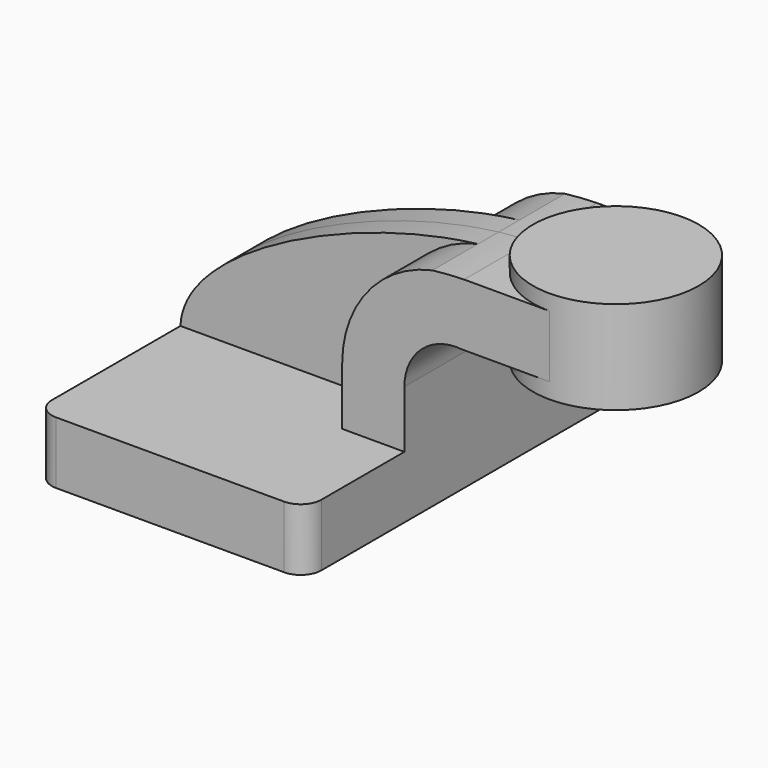
from build123d import *

# Parameters (mm, degrees)
F1_DEPTH = 25.4
F2_DEPTH = 7.9375
F3_DEPTH = 63.5
F0_W     = 25.4
F0_H     = 19.05
F4_DEPTH = 25.4
F6_R     = 6.35


with BuildPart() as f1:
    # F0 (on Front) → F1 (new body, symmetric)
    with BuildSketch(Plane.XZ):
        with BuildLine():
            Line((22.225, 9.525), (41.275, 9.525))
            Line((41.275, 9.525), (41.275, 27.0847757391))
            ThreePointArc((41.275, 27.0847757391), (46.5190025255, 38.8744965881), (58.7864982926, 42.8752))
            Line((58.7864982926, 42.8752), (60.325, 42.8752))
            Line((60.325, 42.8752), (60.325, 61.9252))
            Line((60.325, 61.9252), (59.579086726, 61.9252))
            add(Edge.make_bspline(
                [(49.820043734, 61.2319186085), (53.2136012382, 61.6294074654), (56.4831276325, 61.8655861507), (59.5790867259, 61.9252)],
                knots=[104.2253932415, 104.2253932415, 104.2253932415, 104.2253932415, 113.6544225684, 113.6544225684, 113.6544225684, 113.6544225684], degree=3))
            ThreePointArc((49.820043734, 61.2319186085), (29.9861053272, 49.0365057667), (22.225, 27.0847757391))
            Line((22.225, 27.0847757391), (22.225, 9.525))
        make_face()
    extrude(amount=F1_DEPTH, both=True)

    # F0 (on Front) → F2 (join, symmetric)
    with BuildSketch(Plane.XZ):
        with BuildLine():
            Line((-41.275, 9.525), (22.225, 9.525))
            Line((22.225, 9.525), (22.225, 27.0847757391))
            ThreePointArc((22.225, 27.0847757391), (29.9861053272, 49.0365057667), (49.820043734, 61.2319186085))
            add(Edge.make_bspline(
                [(-41.275, 9.525), (-40.3570706701, 32.7350297492), (12.3087736869, 56.838207338), (49.820043734, 61.2319186085)],
                knots=[0, 0, 0, 0, 104.2253932415, 104.2253932415, 104.2253932415, 104.2253932415], degree=3))
        make_face()
    extrude(amount=F2_DEPTH, both=True)

    # F0 (on Front) → F3 (join, symmetric)
    with BuildSketch(Plane.XZ):
        Polygon((41.275, -9.525), (41.275, 9.525), (22.225, 9.525), (-41.275, 9.525), (-41.275, -9.525), align=None)
    extrude(amount=F3_DEPTH, both=True)

    # F0 (on Front) → F4 (join, symmetric)
    with BuildSketch(Plane.XZ):
        with Locations((73.025, 52.4002)):
            Rectangle(F0_W, F0_H)
    extrude(amount=F4_DEPTH, both=True)

    # F0 (on Front) → F5 (revolve)
    with BuildSketch(Plane.XZ):
        Polygon((85.725, 61.9252), (85.725, 42.8752), (85.725, 38.1), (111.125, 38.1), (111.125, 66.675), (85.725, 66.675), align=None)
    revolve(axis=Axis((85.725, 0, 54.7751), (0, 0, 1)))

    # F6
    f6_edges = [f1.edges().sort_by_distance(p)[0] for p in [
        (-41.275, -63.5, 0),
        (41.275, -63.5, 0),
        (-41.275, 63.5, 0),
        (41.275, 63.5, 0),
    ]]
    fillet(f6_edges, radius=F6_R)


solid = f1.part
